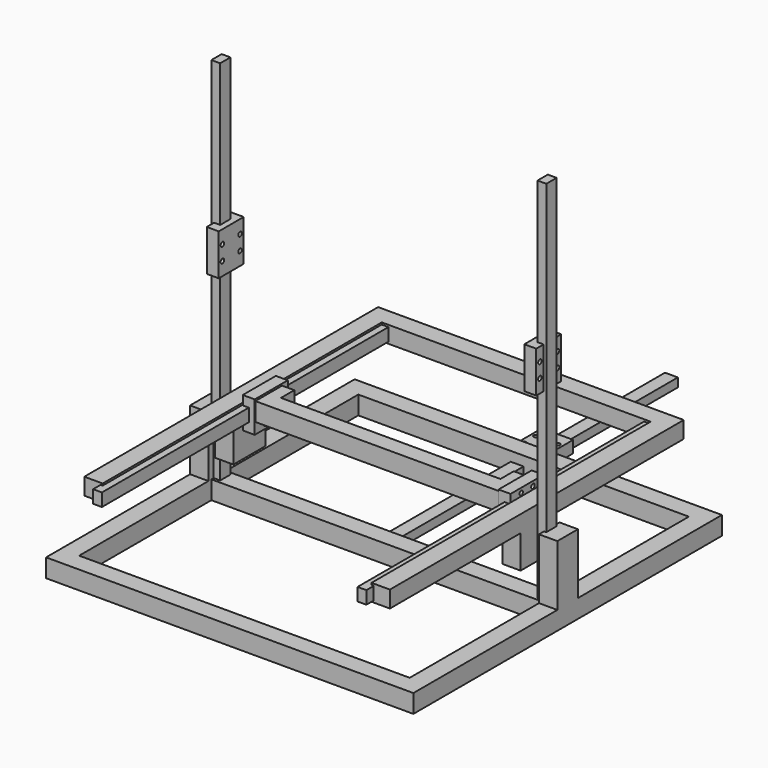
from build123d import *

# Parameters (mm, degrees)
SKETCH002_W             = 7
SKETCH002_H             = 200
PAD001_DEPTH            = 4.8
SKETCH003_W             = 17
SKETCH003_H             = 22.5
SKETCH003_R             = 1.2
PAD002_DEPTH            = 6.5
SKETCH005_W             = 7
SKETCH005_H             = 200
PAD003_DEPTH            = 4.8
SKETCH004_W             = 17
SKETCH004_H             = 22.5
SKETCH004_R             = 1.2
PAD004_DEPTH            = 6.5
BODY002_ROLL_ANGLE      = 90
BODY002_PLACEMENT_ANGLE = 90
SKETCH_W                = 200
SKETCH_H                = 210
SKETCH_W_2              = 180
SKETCH_H_2              = 90
PAD_DEPTH               = 10
PAD005_DEPTH            = 33
SKETCH007_W             = 7
SKETCH007_H             = 200
PAD006_DEPTH            = 4.8
SKETCH008_W             = 17
SKETCH008_H             = 22.5
SKETCH008_R             = 1.2
PAD007_DEPTH            = 6.5
BODY003_ROLL_ANGLE      = 90
BODY003_PLACEMENT_ANGLE = -90
PAD008_DEPTH            = 9.1
SKETCH010_W             = 22
SKETCH010_H             = 10
PAD009_DEPTH            = 18
SKETCH011_W             = 1.2
SKETCH011_H             = 7
POCKET_DEPTH            = 190
SKETCH012_W             = 7
SKETCH012_H             = 200
PAD010_DEPTH            = 4.8
SKETCH013_W             = 17
SKETCH013_H             = 22.5
SKETCH013_R             = 1.2
PAD011_DEPTH            = 6.5
BODY006_PLACEMENT_ANGLE = 270
SKETCH014_W             = 7
SKETCH014_H             = 200
PAD012_DEPTH            = 4.8
SKETCH015_W             = 17
SKETCH015_H             = 22.5
SKETCH015_R             = 1.2
PAD013_DEPTH            = 6.5
BODY007_PLACEMENT_ANGLE = 90
PAD014_DEPTH            = 10


with BuildPart() as rail:
    # Sketch002 → Pad001 (new body)
    with BuildSketch(Plane.XY):
        with Locations((-3.5, 100)):
            Rectangle(SKETCH002_W, SKETCH002_H)
    extrude(amount=PAD001_DEPTH)

    # Sketch003 (on Face6 of Pad001) → Pad002 (join)
    with BuildSketch(Plane.XY.offset(1.5)):
        with Locations((-3.5, 111.25)):
            Rectangle(SKETCH003_W, SKETCH003_H)
        with Locations((-9.5, 115.25)):
            Circle(SKETCH003_R, mode=Mode.SUBTRACT)
        with Locations((2.5, 115.25)):
            Circle(SKETCH003_R, mode=Mode.SUBTRACT)
        with Locations((2.5, 107.25)):
            Circle(SKETCH003_R, mode=Mode.SUBTRACT)
        with Locations((-9.5, 107.25)):
            Circle(SKETCH003_R, mode=Mode.SUBTRACT)
    extrude(amount=PAD002_DEPTH)


with BuildPart() as leftsideverticalrail:
    # Sketch005 → Pad003 (new body)
    with BuildSketch(Plane.XY):
        with Locations((-3.5, 100)):
            Rectangle(SKETCH005_W, SKETCH005_H)
    extrude(amount=PAD003_DEPTH)

    # Sketch004 (on Face6 of Pad003) → Pad004 (join)
    with BuildSketch(Plane.XY.offset(1.5)):
        with Locations((-3.5, 111.25)):
            Rectangle(SKETCH004_W, SKETCH004_H)
        with Locations((-9.5, 115.25)):
            Circle(SKETCH004_R, mode=Mode.SUBTRACT)
        with Locations((2.5, 115.25)):
            Circle(SKETCH004_R, mode=Mode.SUBTRACT)
        with Locations((2.5, 107.25)):
            Circle(SKETCH004_R, mode=Mode.SUBTRACT)
        with Locations((-9.5, 107.25)):
            Circle(SKETCH004_R, mode=Mode.SUBTRACT)
    extrude(amount=PAD004_DEPTH)


with BuildPart() as leftsideverticalrail_1:
    # Body002 roll: moved
    add(leftsideverticalrail.part.rotate(Axis((0, 0, 0), (1, 0, 0)), BODY002_ROLL_ANGLE))


with BuildPart() as leftsideverticalrail_2:
    # Body002 placement: moved
    add(leftsideverticalrail_1.part.moved(Location((-91.2, 3.5, 10))).rotate(Axis((-91.2, 3.5, 10), (0, 0, 1)), BODY002_PLACEMENT_ANGLE))


with BuildPart() as railholder:
    # Sketch → Pad (new body)
    with BuildSketch(Plane.XY):
        Rectangle(SKETCH_W, SKETCH_H)
        with Locations((0, 50)):
            Rectangle(SKETCH_W_2, SKETCH_H_2, mode=Mode.SUBTRACT)
        with Locations((0, -50)):
            Rectangle(SKETCH_W_2, SKETCH_H_2, mode=Mode.SUBTRACT)
    extrude(amount=PAD_DEPTH)

    # Sketch006 (on Face14 of Pad) → Pad005 (join)
    with BuildSketch(Plane.XY.offset(10)):
        Polygon((-100, 7), (-90, 7), (-90, 3.5), (-91.2, 3.5), (-91.2, -3.5), (-90, -3.5), (-90, -7), (-100, -7), align=None)
        Polygon((90, 7), (100, 7), (100, -7), (90, -7), (90, -3.5), (91.2, -3.5), (91.2, 3.5), (90, 3.5), align=None)
    extrude(amount=PAD005_DEPTH)


with BuildPart() as rightsideverticalrail:
    # Sketch007 → Pad006 (new body)
    with BuildSketch(Plane.XY):
        with Locations((-3.5, 100)):
            Rectangle(SKETCH007_W, SKETCH007_H)
    extrude(amount=PAD006_DEPTH)

    # Sketch008 (on Face6 of Pad006) → Pad007 (join)
    with BuildSketch(Plane.XY.offset(1.5)):
        with Locations((-3.5, 111.25)):
            Rectangle(SKETCH008_W, SKETCH008_H)
        with Locations((-9.5, 115.25)):
            Circle(SKETCH008_R, mode=Mode.SUBTRACT)
        with Locations((2.5, 115.25)):
            Circle(SKETCH008_R, mode=Mode.SUBTRACT)
        with Locations((2.5, 107.25)):
            Circle(SKETCH008_R, mode=Mode.SUBTRACT)
        with Locations((-9.5, 107.25)):
            Circle(SKETCH008_R, mode=Mode.SUBTRACT)
    extrude(amount=PAD007_DEPTH)


with BuildPart() as rightsideverticalrail_1:
    # Body003 roll: moved
    add(rightsideverticalrail.part.rotate(Axis((0, 0, 0), (1, 0, 0)), BODY003_ROLL_ANGLE))


with BuildPart() as rightsideverticalrail_2:
    # Body003 placement: moved
    add(rightsideverticalrail_1.part.moved(Location((91.2, -3.5, 10))).rotate(Axis((91.2, -3.5, 10), (0, 0, 1)), BODY003_PLACEMENT_ANGLE))


with BuildPart() as sled:
    # Sketch009 (on DatumPlane) → Pad008 (new body)
    with BuildSketch(Plane(origin=(0, 0, 43), x_dir=(0, 1, 0), z_dir=(0, 0, 1))):
        Polygon((-100, 83.2), (100, 83.2), (100, -83.2), (-100, -83.2), (-100, -73.2), (90, -73.2), (90, 73.2), (-100, 73.2), align=None)
    extrude(amount=PAD008_DEPTH)

    # Sketch010 (on Face9 of Pad008) → Pad009 (join)
    with BuildSketch(Plane.YX.offset(-43)):
        with Locations((0, 78.2)):
            Rectangle(SKETCH010_W, SKETCH010_H)
        with Locations((0, -78.2)):
            Rectangle(SKETCH010_W, SKETCH010_H)
    extrude(amount=PAD009_DEPTH)

    # Sketch011 (on Face1 of Pad009) → Pocket (cut)
    with BuildSketch(Plane(origin=(0, -100, 43), x_dir=(1, 0, 0), z_dir=(0, -1, 0))):
        with Locations((-73.8, 4.55)):
            Rectangle(SKETCH011_W, SKETCH011_H)
        with Locations((73.8, 4.55)):
            Rectangle(SKETCH011_W, SKETCH011_H)
    extrude(amount=-POCKET_DEPTH, mode=Mode.SUBTRACT)


with BuildPart() as obj1:
    # Sketch012 → Pad010 (new body)
    with BuildSketch(Plane.XY):
        with Locations((-3.5, 100)):
            Rectangle(SKETCH012_W, SKETCH012_H)
    extrude(amount=PAD010_DEPTH)

    # Sketch013 (on Face6 of Pad010) → Pad011 (join)
    with BuildSketch(Plane.XY.offset(1.5)):
        with Locations((-3.5, 111.25)):
            Rectangle(SKETCH013_W, SKETCH013_H)
        with Locations((-9.5, 115.25)):
            Circle(SKETCH013_R, mode=Mode.SUBTRACT)
        with Locations((2.5, 115.25)):
            Circle(SKETCH013_R, mode=Mode.SUBTRACT)
        with Locations((2.5, 107.25)):
            Circle(SKETCH013_R, mode=Mode.SUBTRACT)
        with Locations((-9.5, 107.25)):
            Circle(SKETCH013_R, mode=Mode.SUBTRACT)
    extrude(amount=PAD011_DEPTH)


with BuildPart() as obj1_1:
    # Body006 placement: moved
    add(obj1.part.moved(Location((74.4, -105, 51))).rotate(Axis((74.4, -105, 51), (0, 1, 0)), BODY006_PLACEMENT_ANGLE))


with BuildPart() as obj2:
    # Sketch014 → Pad012 (new body)
    with BuildSketch(Plane.XY):
        with Locations((-3.5, 100)):
            Rectangle(SKETCH014_W, SKETCH014_H)
    extrude(amount=PAD012_DEPTH)

    # Sketch015 (on Face6 of Pad012) → Pad013 (join)
    with BuildSketch(Plane.XY.offset(1.5)):
        with Locations((-3.5, 111.25)):
            Rectangle(SKETCH015_W, SKETCH015_H)
        with Locations((-9.5, 115.25)):
            Circle(SKETCH015_R, mode=Mode.SUBTRACT)
        with Locations((2.5, 115.25)):
            Circle(SKETCH015_R, mode=Mode.SUBTRACT)
        with Locations((2.5, 107.25)):
            Circle(SKETCH015_R, mode=Mode.SUBTRACT)
        with Locations((-9.5, 107.25)):
            Circle(SKETCH015_R, mode=Mode.SUBTRACT)
    extrude(amount=PAD013_DEPTH)


with BuildPart() as obj2_1:
    # Body007 placement: moved
    add(obj2.part.moved(Location((-74.4, -105, 44))).rotate(Axis((-74.4, -105, 44), (0, 1, 0)), BODY007_PLACEMENT_ANGLE))


with BuildPart() as body008:
    # Sketch016 → Pad014 (new body)
    with BuildSketch(Plane.XY):
        Polygon((66.4, 4.55), (66.4, -4.55), (-66.4, -4.55), (-66.4, 4.55), (-66.4, 13.65), (-59.76, 13.65), (-59.76, 4.55), (59.76, 4.55), (59.76, 13.65), (66.4, 13.65), align=None)
    extrude(amount=PAD014_DEPTH)


with BuildPart() as body008_1:
    # Body008 placement: moved
    add(body008.part.moved(Location((0, 0, 45))))


solid = Compound([rail.part, leftsideverticalrail_2.part, railholder.part, rightsideverticalrail_2.part, sled.part, obj1_1.part, obj2_1.part, body008_1.part])
